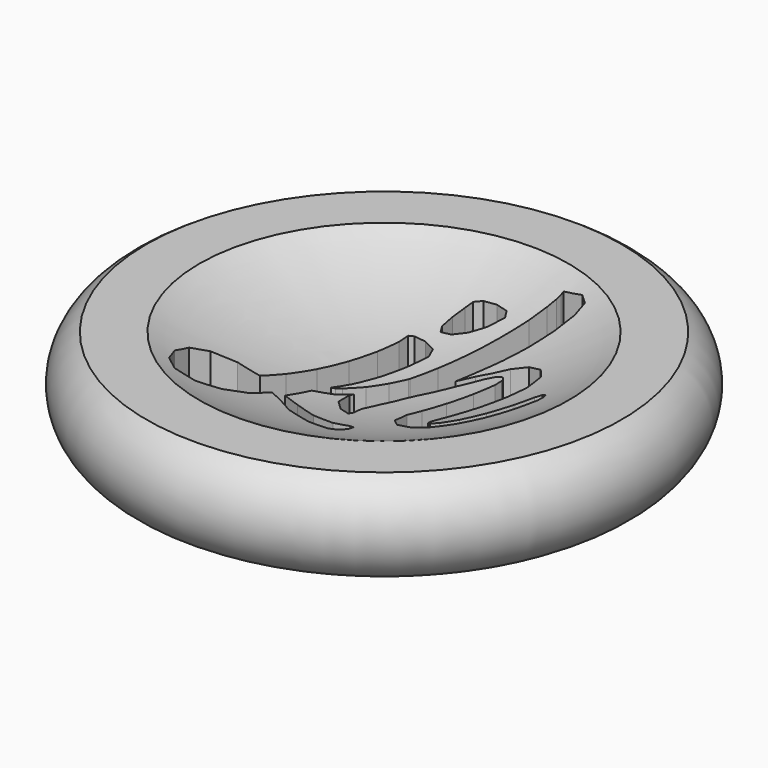
from build123d import *

# Parameters (mm, degrees)
F3_DEPTH = 25


with BuildPart() as f1:
    # F0 (on Front) → F1 (revolve)
    with BuildSketch(Plane.XZ):
        with BuildLine():
            Line((-17.496715, 9.331888), (-22.496715, 9.331888))
            ThreePointArc((-22.496715, 9.331888), (-24.834812, 3.725273), (-20.036565, 0))
            Line((-20.036565, 0), (0, 0))
            Line((0, 0), (0, 5))
            ThreePointArc((0, 5), (-9.012495, 6.099078), (-17.496715, 9.331888))
        make_face()
    revolve(axis=Axis((0, 0, 2.5), (0, 0, 1)))

    # F2 (on face) → F3 (cut)
    with BuildSketch(Plane.XY.offset(9.331888)):
        Polygon((-0.216492, 2.995307), (0.254505, 5.011272), (-0.103403, 5.915488), (-1.158486, 6.367718), (-2.251223, 6.424263), (-2.684442, 6.216975), (-2.778641, 5.218437), (-3.268527, 3.334449), (-4.022122, 0.885266), (-4.907572, -1.789972), (-5.81191, -4.352244), (-6.60316, -6.44352), (-8.694436, -6.462163), (-10.559534, -7.347736), (-11.426218, -8.779615), (-11.407329, -10.512737), (-10.653734, -12.133015), (-9.316176, -13.150319), (-7.469844, -13.018587), (-6.000309, -11.699796), (-4.907572, -9.853341), (-4.327252, -7.863512), (-3.127799, -8.395717), (-1.376574, -9.510228), (-0.725984, -9.738447), (1.206858, -10.452442), (3.254429, -10.742202), (3.959969, -10.343638), (4.197608, -9.47733), (4.075557, -8.713696), (3.702235, -8.622709), (2.329748, -8.98067), (0.341296, -8.75616), (-1.845368, -7.948378), (-3.467592, -7.367524), (-2.985929, -4.823241), (-1.403428, -3.900136), (-0.558292, -2.87075), (1.053987, 1.728992), (1.0081, 1.638861), (0.254505, 0.263525), (-0.687489, -1.262431), (-1.780226, -2.713077), (-2.119246, -3.089874), (-2.420733, -3.240741), (-1.723682, -1.620462), (-0.932432, 0.621556), align=None)
        Polygon((-10.33348, -9.175302), (-9.692974, -8.02602), (-8.694436, -7.498356), (-6.979958, -7.460824), (-7.940841, -9.853341), (-8.619003, -11.002622), (-9.108889, -11.360531), (-9.504575, -11.341887), (-9.975572, -11.002622), (-10.33348, -10.230138), align=None, mode=Mode.SUBTRACT)
        Polygon((-8.694436, -7.498356), (-9.692974, -8.02602), (-10.33348, -9.175302), (-10.33348, -10.230138), (-9.975572, -11.002622), (-9.504575, -11.341887), (-9.108889, -11.360531), (-8.619003, -11.002622), (-7.940841, -9.853341), (-6.979958, -7.460824), align=None)
        Polygon((-0.197603, 12.000792), (-0.838232, 11.605228), (-1.007742, 10.832744), (-1.21503, 9.608152), (-1.252685, 8.440105), (-0.913543, 7.837253), (-0.028093, 7.987874), (0.989334, 8.741469), (1.912439, 9.871862), (2.51529, 11.190653), (2.138493, 11.831282), (1.0081, 12.094992), align=None)
        Polygon((1.874293, 4.069278), (1.053987, 1.728992), (1.535641, 2.675054), (2.006638, 3.315683), (2.402324, 3.315683), (2.534179, 2.769253), (2.251581, 1.808493), (1.309587, -0.019073), (0.066106, -2.110226), (-0.558292, -2.87075), (-0.687979, -3.240741), (-0.499581, -4.766574), (0.536613, -5.802768), (1.553917, -6.179565), (1.685894, -5.689925), (1.591695, -4.653731), (2.024914, -3.127652), (2.835053, -1.036377), (3.268395, -0.150927), (4.907439, 2.411345), (6.207464, 4.069278), (6.923281, 4.67213), (7.488478, 4.728674), (7.771076, 4.332987), (7.676876, 3.541737), (7.03637, 1.789604), (6.207464, -0.358093), (5.472636, -2.317513), (5.039294, -3.57976), (5.114727, -5.143372), (6.000176, -5.953634), (7.337857, -6.047833), (8.731958, -5.463748), (10.069639, -4.163846), (11.426085, -2.430479), (12.650677, -0.546491), (13.592671, 1.167864), (13.724525, 1.73306), (13.573782, 2.128746), (13.23464, 2.204057), (12.801421, 1.808493), (11.953626, 0.433158), (10.804345, -1.375519), (9.598642, -3.089874), (8.61887, -4.182734), (7.997253, -4.559532), (7.733421, -4.483976), (7.714654, -4.107179), (7.865275, -3.541983), (8.44936, -2.07257), (9.297155, -0.169694), (10.144949, 1.808493), (10.729035, 3.541737), (10.691257, 5.237326), (9.862351, 6.216975), (8.581215, 6.443029), (7.262424, 5.915488), (5.284237, 4.201133), (4.323477, 3.051851), (5.058183, 4.973494), (5.849433, 6.80106), (6.640683, 8.722703), (7.413167, 10.926944), (7.865275, 12.716732), (7.82762, 13.997868), (7.017481, 14.694919), (5.227693, 14.732574), (5.227693, 14.393432), (5.171271, 13.941324), (4.963983, 13.093529), (4.511876, 11.529795), align=None)
        Polygon((1.535641, 2.675054), (1.053987, 1.728992), (-0.558292, -2.87075), (0.066106, -2.110226), (1.309587, -0.019073), (2.251581, 1.808493), (2.534179, 2.769253), (2.402324, 3.315683), (2.006638, 3.315683), align=None)
    extrude(amount=-F3_DEPTH, mode=Mode.SUBTRACT)


solid = f1.part
